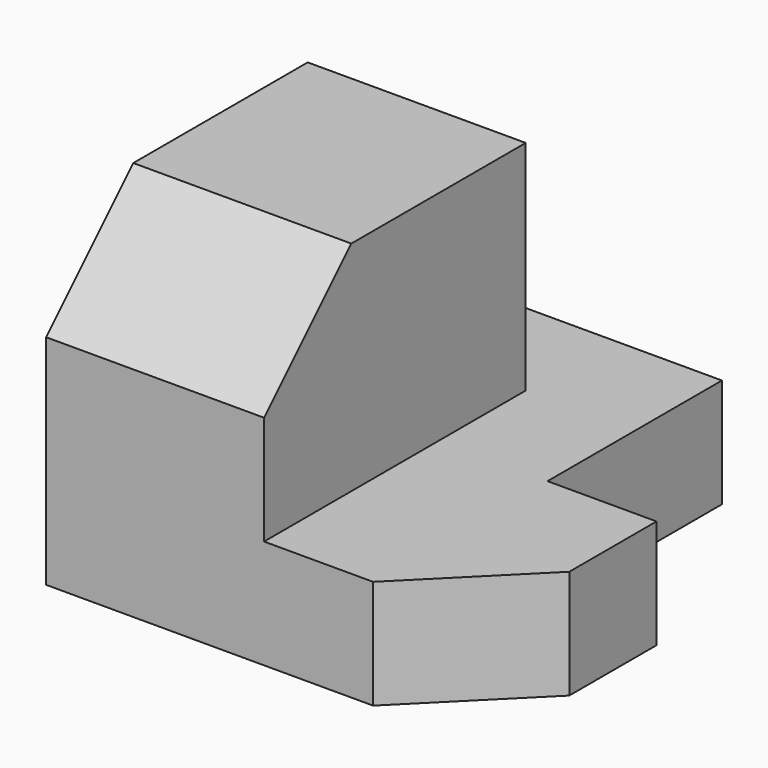
from build123d import *

# Parameters (mm, degrees)
PAD_DEPTH    = 10
SKETCH001_W  = 20
SKETCH001_H  = 30
PAD001_DEPTH = 20
POCKET_DEPTH = 20.001


with BuildPart() as part:
    # Sketch → Pad (new body)
    with BuildSketch(Plane.XY):
        Polygon((-20, 20), (-20, -20), (10, -20), (20, -10), (20, 0), (10, 0), (10, 20), align=None)
    extrude(amount=PAD_DEPTH)

    # Sketch001 (on Face9 of Pad) → Pad001 (join)
    with BuildSketch(Plane.XY.offset(10)):
        with Locations((-10, -5)):
            Rectangle(SKETCH001_W, SKETCH001_H)
    extrude(amount=PAD001_DEPTH)

    # Sketch002 (on Face8 of Pad001) → Pocket (cut, through all)
    with BuildSketch(Plane.YZ):
        Polygon((-20, 30), (-10, 30), (-20, 20), align=None)
    extrude(amount=-POCKET_DEPTH, mode=Mode.SUBTRACT)


solid = part.part
